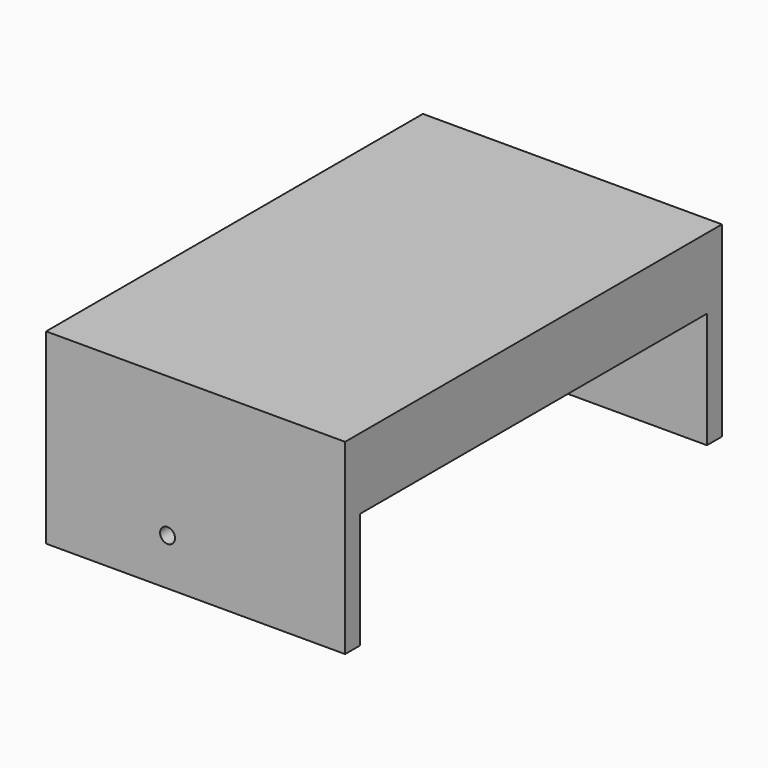
from build123d import *

# Parameters (mm, degrees)
CYLINDER012_R     = 2
CYLINDER012_DEPTH = 130
BOX015_W          = 80
BOX015_H          = 5
BOX015_DEPTH      = 50
BOX014_W          = 80
BOX014_H          = 5
BOX014_DEPTH      = 50
BOX013_W          = 80
BOX013_H          = 126
BOX013_DEPTH      = 5
BOX016_W          = 5
BOX016_H          = 126
BOX016_DEPTH      = 19


with BuildPart() as cylinder012:
    # Cylinder012 → Cylinder012 (new body)
    with BuildSketch(Plane(origin=(218.5, 0, 17.5), x_dir=(1, 0, 0), z_dir=(0, 1, 0))):
        Circle(CYLINDER012_R)
    extrude(amount=CYLINDER012_DEPTH)


with BuildPart() as cube015:
    # Box015 → Box015 (new body)
    with BuildSketch(Plane(origin=(186, 121, 5), x_dir=(1, 0, 0), z_dir=(0, 0, 1))):
        with Locations((40, 2.5)):
            Rectangle(BOX015_W, BOX015_H)
    extrude(amount=BOX015_DEPTH)


with BuildPart() as cube014:
    # Box014 → Box014 (new body)
    with BuildSketch(Plane(origin=(186, 0, 5), x_dir=(1, 0, 0), z_dir=(0, 0, 1))):
        with Locations((40, 2.5)):
            Rectangle(BOX014_W, BOX014_H)
    extrude(amount=BOX014_DEPTH)


with BuildPart() as cube013:
    # Box013 → Box013 (new body)
    with BuildSketch(Plane(origin=(186, 0, 50), x_dir=(1, 0, 0), z_dir=(0, 0, 1))):
        with Locations((40, 63)):
            Rectangle(BOX013_W, BOX013_H)
    extrude(amount=BOX013_DEPTH)


with BuildPart() as cut008004003:
    # Box016 → Box016 (new body)
    with BuildSketch(Plane(origin=(261, 0, 36), x_dir=(1, 0, 0), z_dir=(0, 0, 1))):
        with Locations((2.5, 63)):
            Rectangle(BOX016_W, BOX016_H)
    extrude(amount=BOX016_DEPTH)

    # Fusion003006: union Cube015, Cube014, Cube013
    add(cube015.part)
    add(cube014.part)
    add(cube013.part)

    # Cut008004003: cut Cylinder012
    add(cylinder012.part, mode=Mode.SUBTRACT)


solid = cut008004003.part
